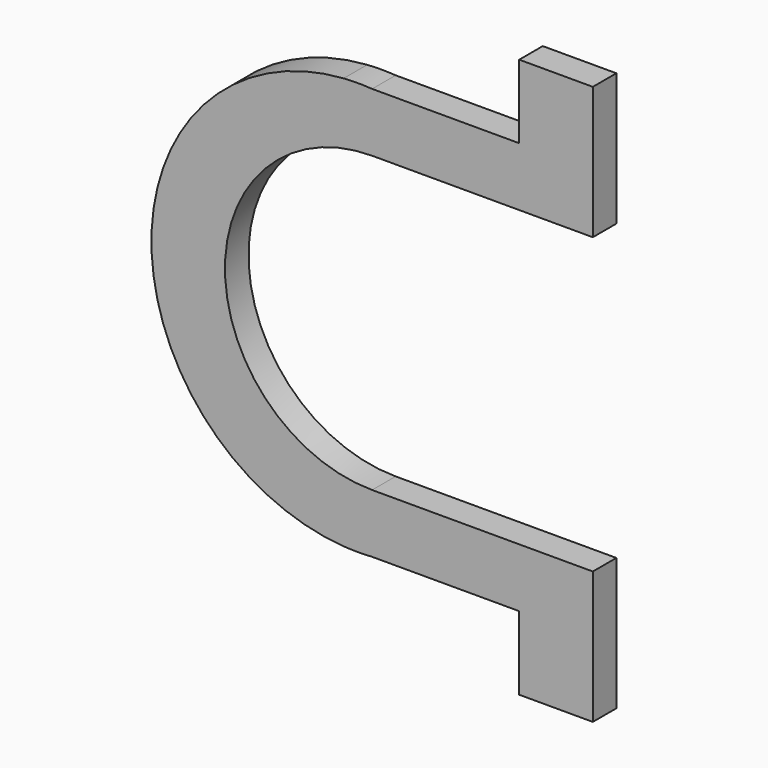
from build123d import *

# Parameters (mm, degrees)
F1_DEPTH = 25.4


with BuildPart() as f1:
    # F0 (on Front) → F1 (new body)
    with BuildSketch(Plane.XZ):
        with BuildLine():
            Line((0, -177.8), (127, -177.8))
            Line((127, -177.8), (127, -241.3))
            Line((127, -241.3), (190.5, -241.3))
            Line((190.5, -241.3), (190.5, -177.8))
            Line((190.5, -177.8), (190.5, -127))
            Line((190.5, -127), (0, -127))
            ThreePointArc((0, -127), (-127, 0), (0, 127))
            Line((0, 127), (190.5, 127))
            Line((190.5, 127), (190.5, 177.8))
            Line((190.5, 177.8), (190.5, 241.3))
            Line((190.5, 241.3), (127, 241.3))
            Line((127, 241.3), (127, 177.8))
            Line((127, 177.8), (0, 177.8))
            Line((0, 177.8), (-24.553333, 177.8))
            ThreePointArc((-24.553333, 177.8), (-190.5, 0), (-24.553333, -177.8))
            Line((-24.553333, -177.8), (0, -177.8))
        make_face()
        with BuildLine():
            ThreePointArc((-24.553333, -177.8), (-12.276667, -178.223333), (0, -177.8))
            Line((0, -177.8), (-24.553333, -177.8))
        make_face()
        with BuildLine():
            ThreePointArc((0, 177.8), (-12.276667, 178.223333), (-24.553333, 177.8))
            Line((-24.553333, 177.8), (0, 177.8))
        make_face()
    extrude(amount=F1_DEPTH)


solid = f1.part
